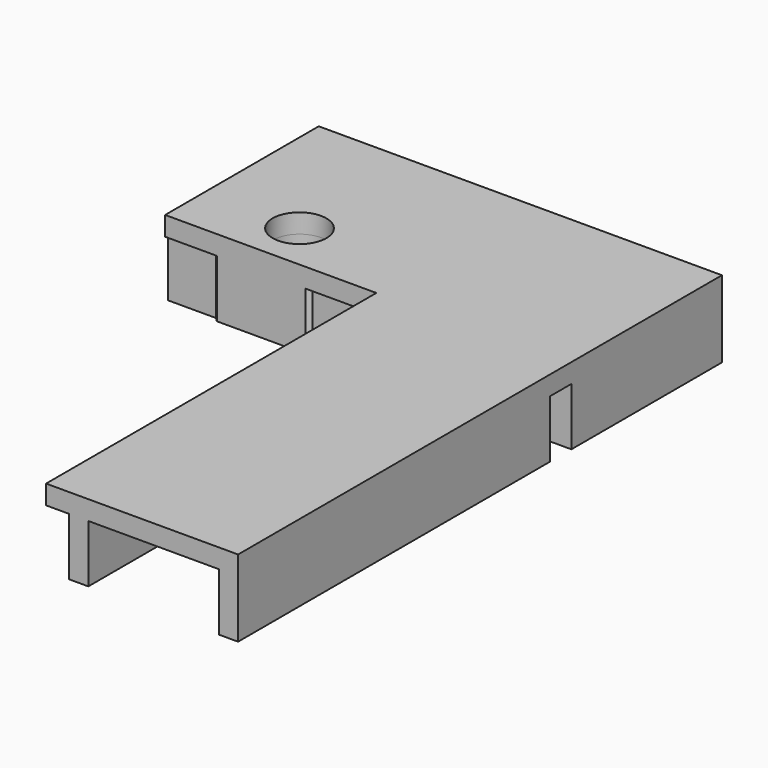
from build123d import *

# Parameters (mm, degrees)
CYLINDER005_R     = 1.4
CYLINDER005_DEPTH = 10
EXTRUDE001_DEPTH  = 3
SKETCH002_R       = 1.4
EXTRUDE002_DEPTH  = 4
EXTRUDE_DEPTH     = 1


with BuildPart() as cylinder005:
    # Cylinder005 → Cylinder005 (new body)
    with BuildSketch(Plane(origin=(-5, 2.5, -5), x_dir=(1, 0, 0), z_dir=(0, 0, 1))):
        Circle(CYLINDER005_R)
    extrude(amount=CYLINDER005_DEPTH)


with BuildPart() as extrude001:
    # Sketch001 → Extrude001 (new body)
    with BuildSketch(Plane.XY.offset(10)):
        Polygon((-21, 10), (0, 10), (0, 9), (-20, 9), (-20, 1.2), (0, 1.2), (0, 0.2), (-21, 0.2), align=None)
        Polygon((-21, -1.2), (-12.2, -1.2), (-12.2, -21.5), (-13.2, -21.5), (-13.2, -2.2), (-20, -2.2), (-20, -21.5), (-21, -21.5), align=None)
    extrude(amount=-EXTRUDE001_DEPTH)


with BuildPart() as extrude001_1:
    # Extrude001 placement: moved
    add(extrude001.part.moved(Location((0, 0, -8))))


with BuildPart() as extrude002:
    # Sketch002 → Extrude002 (new body)
    with BuildSketch(Plane.XY.offset(10)):
        with BuildLine():
            ThreePointArc((-2.695656, 0), (-5, 5.9), (-7.304344, 0))
            Line((-7.304344, 0), (-2.695656, 0))
        make_face()
        with Locations((-5, 2.5)):
            Circle(SKETCH002_R, mode=Mode.SUBTRACT)
    extrude(amount=-EXTRUDE002_DEPTH)


with BuildPart() as extrude002_1:
    # Extrude002 placement: moved
    add(extrude002.part.moved(Location((0, 0, -7))))


with BuildPart() as body002:
    # Sketch → Extrude (new body)
    with BuildSketch(Plane.XY):
        Polygon((-11, 0), (0, 0), (0, 10), (-21, 10), (-21, -21.5), (-11, -21.5), align=None)
    extrude(amount=EXTRUDE_DEPTH)


with BuildPart() as body002_1:
    # Extrude placement: moved
    add(body002.part.moved(Location((0, 0, 2))))

    # Fusion012: union Extrude001, Extrude002
    add(extrude001_1.part)
    add(extrude002_1.part)

    # Cut001: cut Cylinder005
    add(cylinder005.part, mode=Mode.SUBTRACT)


with BuildPart() as part_mirroring003:
    # Part__Mirroring003: instance of Body002
    add(body002_1.part.mirror(Plane(origin=(0, 0, 0), x_dir=(0, -1, 0), z_dir=(1, 0, 0))))


solid = part_mirroring003.part
